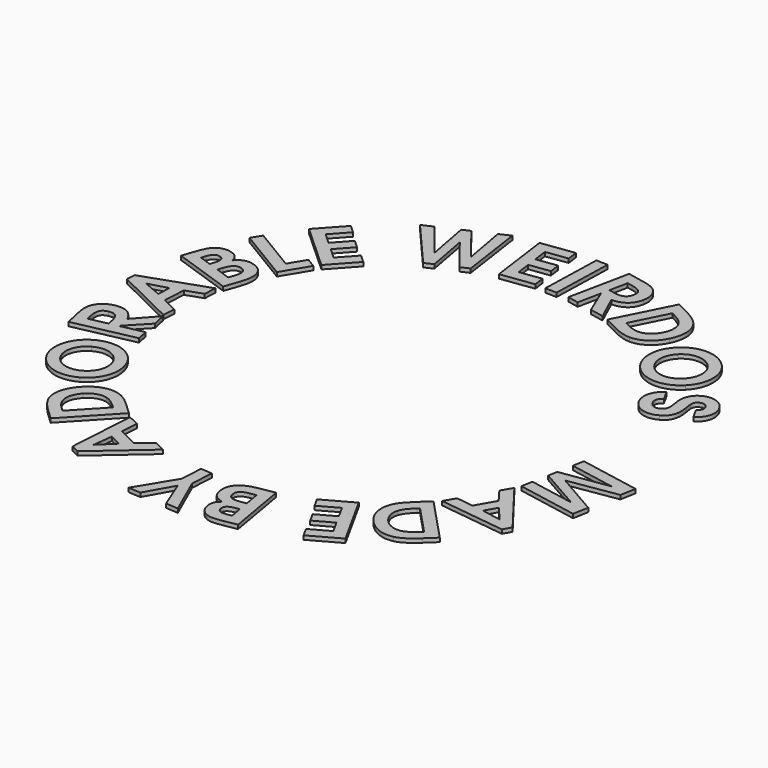
from build123d import *

# Parameters (mm, degrees)
EXTRUDE030_DEPTH = 0.5
EXTRUDE027_DEPTH = 0.5
EXTRUDE025_DEPTH = 0.5
EXTRUDE024_DEPTH = 0.5
EXTRUDE022_DEPTH = 0.5
EXTRUDE015_DEPTH = 0.5
EXTRUDE014_DEPTH = 0.5
EXTRUDE013_DEPTH = 0.5
EXTRUDE012_DEPTH = 0.5
EXTRUDE010_DEPTH = 0.5
EXTRUDE006_DEPTH = 0.5
EXTRUDE001_DEPTH = 0.5
EXTRUDE003_DEPTH = 0.5
EXTRUDE032_DEPTH = 0.5
EXTRUDE018_DEPTH = 0.5
EXTRUDE020_DEPTH = 0.5
EXTRUDE002_DEPTH = 0.5
EXTRUDE009_DEPTH = 0.5
EXTRUDE007_DEPTH = 0.5
EXTRUDE008_DEPTH = 0.5
EXTRUDE005_DEPTH = 0.5
EXTRUDE004_DEPTH = 0.5
EXTRUDE011_DEPTH = 0.5
EXTRUDE016_DEPTH = 0.5
EXTRUDE017_DEPTH = 0.5
EXTRUDE019_DEPTH = 0.5
EXTRUDE021_DEPTH = 0.5
EXTRUDE023_DEPTH = 0.5
EXTRUDE026_DEPTH = 0.5
EXTRUDE029_DEPTH = 0.5
EXTRUDE031_DEPTH = 0.5
EXTRUDE033_DEPTH = 0.5
EXTRUDE034_DEPTH = 0.5
EXTRUDE028_DEPTH = 0.5
EXTRUDE_DEPTH    = 0.5


with BuildPart() as obj1:
    # Face030 → Extrude030 (new body)
    with BuildSketch(Plane(origin=(105.867509, -112.536903, 0), x_dir=(0, -1, 0), z_dir=(0, 0, -1))):
        with BuildLine():
            add(Edge.make_bspline(
                [(0.243497, -1.229201), (1.052007, -1.062601), (1.308327, -0.523531), (1.081917, 0.575209)],
                knots=[0, 0, 0, 0, 1, 1, 1, 1], degree=3))
            add(Edge.make_bspline(
                [(1.081917, 0.575209), (0.938807, 1.269699)],
                knots=[0, 0, 0.709082, 0.709082], degree=1))
            add(Edge.make_bspline(
                [(0.938807, 1.269699), (-1.362333, 0.795529)],
                knots=[0, 0, 2.349486, 2.349486], degree=1))
            add(Edge.make_bspline(
                [(-1.362333, 0.795529), (-1.232043, 0.163239)],
                knots=[0, 0, 0.645574, 0.645574], degree=1))
            add(Edge.make_bspline(
                [(-1.232043, 0.163239), (-0.954373, -1.184281), (-0.440623, -1.370171), (0.243497, -1.229201)],
                knots=[0, 0, 0, 0, 1, 1, 1, 1], degree=3))
        make_face()
    extrude(amount=EXTRUDE030_DEPTH)


with BuildPart() as obj2:
    # Face027 → Extrude027 (new body)
    with BuildSketch(Plane(origin=(72.807212, -133.655014, 0), x_dir=(0, -1, 0), z_dir=(0, 0, -1))):
        with BuildLine():
            add(Edge.make_bspline(
                [(-1.108784, -0.404841), (-0.888104, -1.045212), (-0.381314, -1.183998), (0.579246, -0.852969)],
                knots=[0, 0, 0, 0, 1, 1, 1, 1], degree=3))
            add(Edge.make_bspline(
                [(0.579246, -0.852969), (1.259636, -0.618491)],
                knots=[0, 0, 0.71966, 0.71966], degree=1))
            add(Edge.make_bspline(
                [(1.259636, -0.618491), (0.607926, 1.272606)],
                knots=[0, 0, 2.000243, 2.000243], degree=1))
            add(Edge.make_bspline(
                [(0.607926, 1.272606), (-0.042454, 1.048472)],
                knots=[0, 0, 0.687917, 0.687917], degree=1))
            add(Edge.make_bspline(
                [(-0.042454, 1.048472), (-0.993004, 0.720891), (-1.336374, 0.255542), (-1.108784, -0.404841)],
                knots=[0, 0, 0, 0, 1, 1, 1, 1], degree=3))
        make_face()
    extrude(amount=EXTRUDE027_DEPTH)


with BuildPart() as obj3:
    # Face025 → Extrude025 (new body)
    with BuildSketch(Plane(origin=(69.484369, -141.10482, 0), x_dir=(0, -1, 0), z_dir=(0, 0, -1))):
        with BuildLine():
            add(Edge.make_bspline(
                [(-0.78662, -0.839466), (0.88246, -0.738064)],
                knots=[0, 0, 1.672157, 1.672157], degree=1))
            add(Edge.make_bspline(
                [(0.88246, -0.738064), (-0.09584, 1.577531)],
                knots=[0, 0, 2.513772, 2.513772], degree=1))
            add(Edge.make_bspline(
                [(-0.09584, 1.577531), (-0.78662, -0.839466)],
                knots=[0, 0, 2.513772, 2.513772], degree=1))
        make_face()
    extrude(amount=EXTRUDE025_DEPTH)


with BuildPart() as obj4:
    # Face024 → Extrude024 (new body)
    with BuildSketch(Plane(origin=(104.719414, -173.88275, 0), x_dir=(0, -1, 0), z_dir=(0, 0, -1))):
        with BuildLine():
            add(Edge.make_bspline(
                [(0.16209, 0.919814), (-0.39061, 1.015414), (-0.69361, 0.691954), (-0.84337, -0.173606)],
                knots=[0, 0, 0, 0, 1, 1, 1, 1], degree=3))
            add(Edge.make_bspline(
                [(-0.84337, -0.173606), (-0.92277, -0.632456)],
                knots=[0, 0, 0.465669, 0.465669], degree=1))
            add(Edge.make_bspline(
                [(-0.92277, -0.632456), (0.65192, -0.904896)],
                knots=[0, 0, 1.598084, 1.598084], degree=1))
            add(Edge.make_bspline(
                [(0.65192, -0.904896), (0.75296, -0.320916)],
                knots=[0, 0, 0.592656, 0.592656], degree=1))
            add(Edge.make_bspline(
                [(0.75296, -0.320916), (0.88106, 0.419504), (0.69396, 0.827794), (0.16208, 0.919814)],
                knots=[0, 0, 0, 0, 1, 1, 1, 1], degree=3))
            add(Edge.make_bspline(
                [(0.16208, 0.919814), (0.16209, 0.919814)],
                knots=[0, 0, 1e-05, 1e-05], degree=1))
        make_face()
    extrude(amount=EXTRUDE024_DEPTH)


with BuildPart() as obj5:
    # Face022 → Extrude022 (new body)
    with BuildSketch(Plane(origin=(86.141332, -169.824437, 0), x_dir=(0, -1, 0), z_dir=(0, 0, -1))):
        with BuildLine():
            add(Edge.make_bspline(
                [(-1.079097, 0.398783), (-0.337337, -1.099855)],
                knots=[0, 0, 1.672161, 1.672161], degree=1))
            add(Edge.make_bspline(
                [(-0.337337, -1.099855), (1.416433, 0.701073)],
                knots=[0, 0, 2.513772, 2.513772], degree=1))
            add(Edge.make_bspline(
                [(1.416433, 0.701073), (-1.079097, 0.398783)],
                knots=[0, 0, 2.513772, 2.513772], degree=1))
        make_face()
    extrude(amount=EXTRUDE022_DEPTH)


with BuildPart() as obj6:
    # Face015 → Extrude015 (new body)
    with BuildSketch(Plane(origin=(112.748876, -116.366685, 0), x_dir=(0, -1, 0), z_dir=(0, 0, -1))):
        with BuildLine():
            add(Edge.make_bspline(
                [(0.856605, -1.663164), (1.697605, -1.239004), (2.248725, -0.475074), (2.274355, 0.320166)],
                knots=[0, 0, 0, 0, 1, 1, 1, 1], degree=3))
            add(Edge.make_bspline(
                [(2.274355, 0.320166), (2.296255, 0.817206), (2.119135, 1.403486), (1.728335, 2.178346)],
                knots=[0, 0, 0, 0, 1, 1, 1, 1], degree=3))
            add(Edge.make_bspline(
                [(1.728335, 2.178346), (1.585365, 2.461836)],
                knots=[0, 0, 0.317501, 0.317501], degree=1))
            add(Edge.make_bspline(
                [(1.585365, 2.461836), (-2.922045, 0.188526)],
                knots=[0, 0, 5.048236, 5.048236], degree=1))
            add(Edge.make_bspline(
                [(-2.922045, 0.188526), (-2.793365, -0.066604)],
                knots=[0, 0, 0.285744, 0.285744], degree=1))
            add(Edge.make_bspline(
                [(-2.793365, -0.066604), (-2.378745, -0.888714), (-2.079155, -1.294714), (-1.666335, -1.596194)],
                knots=[0, 0, 0, 0, 1, 1, 1, 1], degree=3))
            add(Edge.make_bspline(
                [(-1.666335, -1.596194), (-0.992535, -2.086084), (-0.041095, -2.115914), (0.856605, -1.663194)],
                knots=[0, 0, 0, 0, 1, 1, 1, 1], degree=3))
            add(Edge.make_bspline(
                [(0.856605, -1.663194), (0.856605, -1.663164)],
                knots=[0, 0, 3e-05, 3e-05], degree=1))
        make_face()
    extrude(amount=EXTRUDE015_DEPTH)


with BuildPart() as obj7:
    # Face014 → Extrude014 (new body)
    with BuildSketch(Plane(origin=(119.803877, -164.540398, 0), x_dir=(0, -1, 0), z_dir=(0, 0, -1))):
        with BuildLine():
            add(Edge.make_bspline(
                [(1.269802, 1.373857), (0.583542, 2.019027), (-0.322818, 2.275567), (-1.078858, 2.027627)],
                knots=[0, 0, 0, 0, 1, 1, 1, 1], degree=3))
            add(Edge.make_bspline(
                [(-1.078858, 2.027627), (-1.553418, 1.878217), (-2.043728, 1.511187), (-2.638158, 0.878907)],
                knots=[0, 0, 0, 0, 1, 1, 1, 1], degree=3))
            add(Edge.make_bspline(
                [(-2.638158, 0.878907), (-2.855628, 0.647587)],
                knots=[0, 0, 0.317494, 0.317494], degree=1))
            add(Edge.make_bspline(
                [(-2.855628, 0.647587), (0.822412, -2.810253)],
                knots=[0, 0, 5.048231, 5.048231], degree=1))
            add(Edge.make_bspline(
                [(0.822412, -2.810253), (1.018142, -2.602063)],
                knots=[0, 0, 0.28575, 0.28575], degree=1))
            add(Edge.make_bspline(
                [(1.018142, -2.602063), (1.648822, -1.931223), (1.927842, -1.510823), (2.069922, -1.019783)],
                knots=[0, 0, 0, 0, 1, 1, 1, 1], degree=3))
            add(Edge.make_bspline(
                [(2.069922, -1.019783), (2.299772, -0.219053), (2.002322, 0.685187), (1.269802, 1.373857)],
                knots=[0, 0, 0, 0, 1, 1, 1, 1], degree=3))
        make_face()
    extrude(amount=EXTRUDE014_DEPTH)


with BuildPart() as obj8:
    # Face013 → Extrude013 (new body)
    with BuildSketch(Plane(origin=(69.690437, -132.801837, 0), x_dir=(0, -1, 0), z_dir=(0, 0, -1))):
        with BuildLine():
            add(Edge.make_bspline(
                [(-0.883967, -0.301562), (-0.701207, -0.831869), (-0.271697, -0.941315), (0.558783, -0.655113)],
                knots=[0, 0, 0, 0, 1, 1, 1, 1], degree=3))
            add(Edge.make_bspline(
                [(0.558783, -0.655113), (0.999043, -0.503392)],
                knots=[0, 0, 0.46567, 0.46567], degree=1))
            add(Edge.make_bspline(
                [(0.999043, -0.503392), (0.478363, 1.007484)],
                knots=[0, 0, 1.598078, 1.598078], degree=1))
            add(Edge.make_bspline(
                [(0.478363, 1.007484), (-0.081967, 0.814384)],
                knots=[0, 0, 0.59267, 0.59267], degree=1))
            add(Edge.make_bspline(
                [(-0.081967, 0.814384), (-0.792377, 0.569561), (-1.059817, 0.208734), (-0.883967, -0.301562)],
                knots=[0, 0, 0, 0, 1, 1, 1, 1], degree=3))
        make_face()
    extrude(amount=EXTRUDE013_DEPTH)


with BuildPart() as obj9:
    # Face012 → Extrude012 (new body)
    with BuildSketch(Plane(origin=(79.11622, -164.606565, 0), x_dir=(0, -1, 0), z_dir=(0, 0, -1))):
        with BuildLine():
            add(Edge.make_bspline(
                [(-1.292765, 1.352275), (-1.979115, 0.707196), (-2.291165, -0.181586), (-2.090415, -0.951494)],
                knots=[0, 0, 0, 0, 1, 1, 1, 1], degree=3))
            add(Edge.make_bspline(
                [(-2.090415, -0.951494), (-1.970615, -1.434383), (-1.634595, -1.946435), (-1.040255, -2.5788)],
                knots=[0, 0, 0, 0, 1, 1, 1, 1], degree=3))
            add(Edge.make_bspline(
                [(-1.040255, -2.5788), (-0.822815, -2.810154)],
                knots=[0, 0, 0.317498, 0.317498], degree=1))
            add(Edge.make_bspline(
                [(-0.822815, -2.810154), (2.855705, 0.647183)],
                knots=[0, 0, 5.048236, 5.048236], degree=1))
            add(Edge.make_bspline(
                [(2.855705, 0.647183), (2.660005, 0.855401)],
                knots=[0, 0, 0.28575, 0.28575], degree=1))
            add(Edge.make_bspline(
                [(2.660005, 0.855401), (2.029425, 1.526325), (1.627075, 1.830794), (1.145745, 2.002942)],
                knots=[0, 0, 0, 0, 1, 1, 1, 1], degree=3))
            add(Edge.make_bspline(
                [(1.145745, 2.002942), (0.360755, 2.281836), (-0.560145, 2.040842), (-1.292765, 1.352275)],
                knots=[0, 0, 0, 0, 1, 1, 1, 1], degree=3))
        make_face()
    extrude(amount=EXTRUDE012_DEPTH)


with BuildPart() as obj10:
    # Face010 → Extrude010 (new body)
    with BuildSketch(Plane(origin=(120.329053, -121.819236, 0), x_dir=(0, -1, 0), z_dir=(0, 0, -1))):
        with BuildLine():
            add(Edge.make_bspline(
                [(1.848304, -1.840127), (2.914384, -0.780897), (2.941934, 0.798043), (1.897604, 1.849113)],
                knots=[0, 0, 0, 0, 1, 1, 1, 1], degree=3))
            add(Edge.make_bspline(
                [(1.897604, 1.849113), (0.853304, 2.900183), (-0.793066, 2.905493), (-1.844136, 1.861213)],
                knots=[0, 0, 0, 0, 1, 1, 1, 1], degree=3))
            add(Edge.make_bspline(
                [(-1.844136, 1.861213), (-2.917726, 0.794523), (-2.922946, -0.821907), (-1.863736, -1.887987)],
                knots=[0, 0, 0, 0, 1, 1, 1, 1], degree=3))
            add(Edge.make_bspline(
                [(-1.863736, -1.887987), (-0.841806, -2.916537), (0.782184, -2.899327), (1.848274, -1.840087)],
                knots=[0, 0, 0, 0, 1, 1, 1, 1], degree=3))
            add(Edge.make_bspline(
                [(1.848274, -1.840087), (1.848304, -1.840127)],
                knots=[0, 0, 5e-05, 5e-05], degree=1))
        make_face()
    extrude(amount=EXTRUDE010_DEPTH)


with BuildPart() as obj11:
    # Face006 → Extrude006 (new body)
    with BuildSketch(Plane(origin=(73.38711, -157.234071, 0), x_dir=(0, -1, 0), z_dir=(0, 0, -1))):
        with BuildLine():
            add(Edge.make_bspline(
                [(-2.293671, 1.241461), (-3.016211, -0.076279), (-2.595551, -1.598404), (-1.296371, -2.310761)],
                knots=[0, 0, 0, 0, 1, 1, 1, 1], degree=3))
            add(Edge.make_bspline(
                [(-1.296371, -2.310761), (0.002809, -3.023118), (1.583309, -2.562043), (2.295669, -1.262863)],
                knots=[0, 0, 0, 0, 1, 1, 1, 1], degree=3))
            add(Edge.make_bspline(
                [(2.295669, -1.262863), (3.023289, 0.064157), (2.570599, 1.615914), (1.252859, 2.338448)],
                knots=[0, 0, 0, 0, 1, 1, 1, 1], degree=3))
            add(Edge.make_bspline(
                [(1.252859, 2.338448), (-0.018481, 3.035541), (-1.571141, 2.559201), (-2.293671, 1.241461)],
                knots=[0, 0, 0, 0, 1, 1, 1, 1], degree=3))
        make_face()
    extrude(amount=EXTRUDE006_DEPTH)


with BuildPart() as obj12:
    # Face001 → Extrude001 (new body)
    with BuildSketch(Plane(origin=(69.00917, -149.23488, 0), x_dir=(0, -1, 0), z_dir=(0, 0, -1))):
        with BuildLine():
            add(Edge.make_bspline(
                [(-1.22385, 0.269105), (-1.39496, -0.538465), (-1.00364, -0.989197), (0.09383, -1.221725)],
                knots=[0, 0, 0, 0, 1, 1, 1, 1], degree=3))
            add(Edge.make_bspline(
                [(0.09383, -1.221725), (0.78751, -1.3687)],
                knots=[0, 0, 0.709079, 0.709079], degree=1))
            add(Edge.make_bspline(
                [(0.78751, -1.3687), (1.2745, 0.929767)],
                knots=[0, 0, 2.349491, 2.349491], degree=1))
            add(Edge.make_bspline(
                [(1.2745, 0.929767), (0.64294, 1.063581)],
                knots=[0, 0, 0.645581, 0.645581], degree=1))
            add(Edge.make_bspline(
                [(0.64294, 1.063581), (-0.70301, 1.348756), (-1.07907, 0.952433), (-1.22385, 0.269105)],
                knots=[0, 0, 0, 0, 1, 1, 1, 1], degree=3))
        make_face()
    extrude(amount=EXTRUDE001_DEPTH)


with BuildPart() as obj13:
    # Face003 → Extrude003 (new body)
    with BuildSketch(Plane(origin=(103.963836, -170.740888, 0), x_dir=(0, -1, 0), z_dir=(0, 0, -1))):
        with BuildLine():
            add(Edge.make_bspline(
                [(0.180032, 1.166576), (-0.487378, 1.282046), (-0.853348, 0.905006), (-1.026568, -0.096114)],
                knots=[0, 0, 0, 0, 1, 1, 1, 1], degree=3))
            add(Edge.make_bspline(
                [(-1.026568, -0.096114), (-1.149258, -0.805244)],
                knots=[0, 0, 0.719665, 0.719665], degree=1))
            add(Edge.make_bspline(
                [(-1.149258, -0.805244), (0.821702, -1.146254)],
                knots=[0, 0, 2.000243, 2.000243], degree=1))
            add(Edge.make_bspline(
                [(0.821702, -1.146254), (0.938982, -0.468414)],
                knots=[0, 0, 0.687911, 0.687911], degree=1))
            add(Edge.make_bspline(
                [(0.938982, -0.468414), (1.110392, 0.522286), (0.868282, 1.047496), (0.180032, 1.166576)],
                knots=[0, 0, 0, 0, 1, 1, 1, 1], degree=3))
        make_face()
    extrude(amount=EXTRUDE003_DEPTH)


with BuildPart() as obj14:
    # Face032 → Extrude032 (new body)
    with BuildSketch(Plane(origin=(125.445887, -157.853437, 0), x_dir=(0, -1, 0), z_dir=(0, 0, -1))):
        with BuildLine():
            add(Edge.make_bspline(
                [(0.330803, 1.101837), (-1.118727, 0.268187)],
                knots=[0, 0, 1.672157, 1.672157], degree=1))
            add(Edge.make_bspline(
                [(-1.118727, 0.268187), (0.787923, -1.370023)],
                knots=[0, 0, 2.513771, 2.513771], degree=1))
            add(Edge.make_bspline(
                [(0.787923, -1.370023), (0.330803, 1.101837)],
                knots=[0, 0, 2.513772, 2.513772], degree=1))
        make_face()
    extrude(amount=EXTRUDE032_DEPTH)

    # Fusion: union obj1, obj2, obj3, obj4, obj5, obj6, obj7, obj8, obj9, obj10, obj11, obj12, obj13
    add(obj1.part)
    add(obj2.part)
    add(obj3.part)
    add(obj4.part)
    add(obj5.part)
    add(obj6.part)
    add(obj7.part)
    add(obj8.part)
    add(obj9.part)
    add(obj10.part)
    add(obj11.part)
    add(obj12.part)
    add(obj13.part)


with BuildPart() as obj15:
    # Part__Mirroring: instance of obj14
    add(obj14.part.mirror(Plane(origin=(0, 0, 0), x_dir=(0, 1, 0), z_dir=(0, 0, 1))))


with BuildPart() as extrude018:
    # Face018 → Extrude018 (new body)
    with BuildSketch(Plane(origin=(104.384623, -172.137742, 0), x_dir=(0, 1, 0), z_dir=(0, 0, 1))):
        with BuildLine():
            add(Edge.make_bspline(
                [(0.999112, 3.031893), (0.081422, 2.873113), (-0.444828, 2.438363), (-0.681938, 1.387733)],
                knots=[0, 0, 0, 0, 1, 1, 1, 1], degree=3))
            add(Edge.make_bspline(
                [(-0.681938, 1.387733), (-1.111668, 1.947073), (-1.559878, 2.116553), (-2.279428, 1.992063)],
                knots=[0, 0, 0, 0, 1, 1, 1, 1], degree=3))
            add(Edge.make_bspline(
                [(-2.279428, 1.992063), (-2.998988, 1.867563), (-3.547898, 1.439633), (-3.806838, 0.825583)],
                knots=[0, 0, 0, 0, 1, 1, 1, 1], degree=3))
            add(Edge.make_bspline(
                [(-3.806838, 0.825583), (-4.019438, 0.316223), (-4.019868, -0.177917), (-3.821438, -1.325037)],
                knots=[0, 0, 0, 0, 1, 1, 1, 1], degree=3))
            add(Edge.make_bspline(
                [(-3.821438, -1.325037), (-3.547188, -2.910147)],
                knots=[0, 0, 1.60866, 1.60866], degree=1))
            add(Edge.make_bspline(
                [(-3.547188, -2.910147), (4.159372, -1.576777)],
                knots=[0, 0, 7.821058, 7.821058], degree=1))
            add(Edge.make_bspline(
                [(4.159372, -1.576777), (3.803932, 0.477603)],
                knots=[0, 0, 2.084902, 2.084902], degree=1))
            add(Edge.make_bspline(
                [(3.803932, 0.477603), (3.461112, 2.458993), (2.406902, 3.275473), (0.999072, 3.031893)],
                knots=[0, 0, 0, 0, 1, 1, 1, 1], degree=3))
            add(Edge.make_bspline(
                [(0.999072, 3.031893), (0.999112, 3.031893)],
                knots=[0, 0, 4e-05, 4e-05], degree=1))
        make_face()
    extrude(amount=EXTRUDE018_DEPTH)


with BuildPart() as extrude020:
    # Face020 → Extrude020 (new body)
    with BuildSketch(Plane(origin=(112.646063, -116.320599, 0), x_dir=(0, 1, 0), z_dir=(0, 0, 1))):
        with BuildLine():
            add(Edge.make_bspline(
                [(-1.560371, -3.070007), (-0.237451, -3.737227), (1.135119, -3.741987), (2.211869, -3.064007)],
                knots=[0, 0, 0, 0, 1, 1, 1, 1], degree=3))
            add(Edge.make_bspline(
                [(2.211869, -3.064007), (2.819019, -2.682737), (3.408499, -1.936967), (3.961339, -0.840827)],
                knots=[0, 0, 0, 0, 1, 1, 1, 1], degree=3))
            add(Edge.make_bspline(
                [(3.961339, -0.840827), (4.766769, 0.756143)],
                knots=[0, 0, 1.788583, 1.788583], degree=1))
            add(Edge.make_bspline(
                [(4.766769, 0.756143), (-2.216411, 4.278093)],
                knots=[0, 0, 7.821057, 7.821057], degree=1))
            add(Edge.make_bspline(
                [(-2.216411, 4.278093), (-3.036141, 2.652783)],
                knots=[0, 0, 1.820327, 1.820327], degree=1))
            add(Edge.make_bspline(
                [(-3.036141, 2.652783), (-3.569911, 1.594443), (-3.785281, 0.908903), (-3.787741, 0.198953)],
                knots=[0, 0, 0, 0, 1, 1, 1, 1], degree=3))
            add(Edge.make_bspline(
                [(-3.787741, 0.198953), (-3.801841, -1.145177), (-2.968351, -2.359727), (-1.560371, -3.069837)],
                knots=[0, 0, 0, 0, 1, 1, 1, 1], degree=3))
            add(Edge.make_bspline(
                [(-1.560371, -3.069837), (-1.560371, -3.070007)],
                knots=[0, 0, 0.00017, 0.00017], degree=1))
        make_face()
    extrude(amount=EXTRUDE020_DEPTH)


with BuildPart() as extrude002:
    # Face002 → Extrude002 (new body)
    with BuildSketch(Plane(origin=(119.882306, -164.459677, 0), x_dir=(0, 1, 0), z_dir=(0, 0, 1))):
        with BuildLine():
            add(Edge.make_bspline(
                [(-2.350903, 2.516376), (-3.430413, 1.501496), (-3.904423, 0.213366), (-3.635823, -1.030284)],
                knots=[0, 0, 0, 0, 1, 1, 1, 1], degree=3))
            add(Edge.make_bspline(
                [(-3.635823, -1.030284), (-3.485253, -1.731234), (-2.986123, -2.540264), (-2.145223, -3.434724)],
                knots=[0, 0, 0, 0, 1, 1, 1, 1], degree=3))
            add(Edge.make_bspline(
                [(-2.145223, -3.434724), (-0.920123, -4.737844)],
                knots=[0, 0, 1.788573, 1.788573], degree=1))
            add(Edge.make_bspline(
                [(-0.920123, -4.737844), (4.778157, 0.619266)],
                knots=[0, 0, 7.821063, 7.821063], degree=1))
            add(Edge.make_bspline(
                [(4.778157, 0.619266), (3.531297, 1.945526)],
                knots=[0, 0, 1.820337, 1.820337], degree=1))
            add(Edge.make_bspline(
                [(3.531297, 1.945526), (2.719397, 2.809136), (2.148887, 3.246016), (1.482617, 3.491186)],
                knots=[0, 0, 0, 0, 1, 1, 1, 1], degree=3))
            add(Edge.make_bspline(
                [(1.482617, 3.491186), (0.224407, 3.964266), (-1.202003, 3.596496), (-2.350903, 2.516376)],
                knots=[0, 0, 0, 0, 1, 1, 1, 1], degree=3))
        make_face()
    extrude(amount=EXTRUDE002_DEPTH)


with BuildPart() as extrude009:
    # Face009 → Extrude009 (new body)
    with BuildSketch(Plane(origin=(73.387077, -157.234524, 0), x_dir=(0, 1, 0), z_dir=(0, 0, 1))):
        with BuildLine():
            add(Edge.make_bspline(
                [(3.564574, 1.962168), (2.490944, 3.920218), (0.052554, 4.647157), (-1.905496, 3.573533)],
                knots=[0, 0, 0, 0, 1, 1, 1, 1], degree=3))
            add(Edge.make_bspline(
                [(-1.905496, 3.573533), (-3.947066, 2.454114), (-4.674896, 0.039373), (-3.575836, -1.965077)],
                knots=[0, 0, 0, 0, 1, 1, 1, 1], degree=3))
            add(Edge.make_bspline(
                [(-3.575836, -1.965077), (-2.492036, -3.941687), (-0.035976, -4.634801), (1.977754, -3.530647)],
                knots=[0, 0, 0, 0, 1, 1, 1, 1], degree=3))
            add(Edge.make_bspline(
                [(1.977754, -3.530647), (3.972924, -2.43667), (4.663634, -0.042281), (3.564574, 1.962168)],
                knots=[0, 0, 0, 0, 1, 1, 1, 1], degree=3))
        make_face()
    extrude(amount=EXTRUDE009_DEPTH)


with BuildPart() as extrude007:
    # Face007 → Extrude007 (new body)
    with BuildSketch(Plane(origin=(77.264595, -123.140091, 0), x_dir=(0, 1, 0), z_dir=(0, 0, 1))):
        with BuildLine():
            add(Edge.make_bspline(
                [(-0.826139, -4.532261), (0.106681, -3.506591)],
                knots=[0, 0, 1.386417, 1.386417], degree=1))
            add(Edge.make_bspline(
                [(0.106681, -3.506591), (-1.929009, -1.655206)],
                knots=[0, 0, 2.751665, 2.751665], degree=1))
            add(Edge.make_bspline(
                [(-1.929009, -1.655206), (-0.704239, -0.308525)],
                knots=[0, 0, 1.820333, 1.820333], degree=1))
            add(Edge.make_bspline(
                [(-0.704239, -0.308525), (1.245311, -2.081582)],
                knots=[0, 0, 2.635237, 2.635237], degree=1))
            add(Edge.make_bspline(
                [(1.245311, -2.081582), (2.178131, -1.055912)],
                knots=[0, 0, 1.386417, 1.386417], degree=1))
            add(Edge.make_bspline(
                [(2.178131, -1.055912), (0.228571, 0.717145)],
                knots=[0, 0, 2.635245, 2.635245], degree=1))
            add(Edge.make_bspline(
                [(0.228571, 0.717145), (1.467571, 2.079485)],
                knots=[0, 0, 1.841492, 1.841492], degree=1))
            add(Edge.make_bspline(
                [(1.467571, 2.079485), (3.503251, 0.2281)],
                knots=[0, 0, 2.751658, 2.751658], degree=1))
            add(Edge.make_bspline(
                [(3.503251, 0.2281), (4.436071, 1.25377)],
                knots=[0, 0, 1.386417, 1.386417], degree=1))
            add(Edge.make_bspline(
                [(4.436071, 1.25377), (1.327741, 4.080692)],
                knots=[0, 0, 4.201572, 4.201572], degree=1))
            add(Edge.make_bspline(
                [(1.327741, 4.080692), (-3.934469, -1.705339)],
                knots=[0, 0, 7.821062, 7.821062], degree=1))
            add(Edge.make_bspline(
                [(-3.934469, -1.705339), (-0.826139, -4.532261)],
                knots=[0, 0, 4.201572, 4.201572], degree=1))
        make_face()
    extrude(amount=EXTRUDE007_DEPTH)


with BuildPart() as extrude008:
    # Face008 → Extrude008 (new body)
    with BuildSketch(Plane(origin=(87.054466, -115.687966, 0), x_dir=(0, 1, 0), z_dir=(0, 0, 1))):
        with BuildLine():
            add(Edge.make_bspline(
                [(5.329276, -2.747734), (4.714796, -1.3995)],
                knots=[0, 0, 1.481661, 1.481661], degree=1))
            add(Edge.make_bspline(
                [(4.714796, -1.3995), (-0.829384, -2.402746)],
                knots=[0, 0, 5.63422, 5.63422], degree=1))
            add(Edge.make_bspline(
                [(-0.829384, -2.402746), (3.595556, 1.056211)],
                knots=[0, 0, 5.616447, 5.616447], degree=1))
            add(Edge.make_bspline(
                [(3.595556, 1.056211), (3.156646, 2.019235)],
                knots=[0, 0, 1.058328, 1.058328], degree=1))
            add(Edge.make_bspline(
                [(3.156646, 2.019235), (-2.365594, 0.967838)],
                knots=[0, 0, 5.621438, 5.621438], degree=1))
            add(Edge.make_bspline(
                [(-2.365594, 0.967838), (2.033016, 4.484576)],
                knots=[0, 0, 5.631626, 5.631626], degree=1))
            add(Edge.make_bspline(
                [(2.033016, 4.484576), (1.418536, 5.832809)],
                knots=[0, 0, 1.481661, 1.481661], degree=1))
            add(Edge.make_bspline(
                [(1.418536, 5.832809), (-4.745764, 0.499458)],
                knots=[0, 0, 8.151272, 8.151272], degree=1))
            add(Edge.make_bspline(
                [(-4.745764, 0.499458), (-4.271734, -0.540608)],
                knots=[0, 0, 1.142997, 1.142997], degree=1))
            add(Edge.make_bspline(
                [(-4.271734, -0.540608), (0.972936, 0.430802)],
                knots=[0, 0, 5.333873, 5.333873], degree=1))
            add(Edge.make_bspline(
                [(0.972936, 0.430802), (-3.213944, -2.861496)],
                knots=[0, 0, 5.326274, 5.326274], degree=1))
            add(Edge.make_bspline(
                [(-3.213944, -2.861496), (-2.735524, -3.911192)],
                knots=[0, 0, 1.15358, 1.15358], degree=1))
            add(Edge.make_bspline(
                [(-2.735524, -3.911192), (5.329276, -2.747734)],
                knots=[0, 0, 8.14829, 8.14829], degree=1))
        make_face()
    extrude(amount=EXTRUDE008_DEPTH)


with BuildPart() as extrude005:
    # Face005 → Extrude005 (new body)
    with BuildSketch(Plane(origin=(79.201633, -164.679855, 0), x_dir=(0, 1, 0), z_dir=(0, 0, 1))):
        with BuildLine():
            add(Edge.make_bspline(
                [(2.366285, 2.501914), (1.286635, 3.516646), (-0.028315, 3.91014), (-1.252995, 3.565209)],
                knots=[0, 0, 0, 0, 1, 1, 1, 1], degree=3))
            add(Edge.make_bspline(
                [(-1.252995, 3.565209), (-1.943295, 3.371608), (-2.719945, 2.823438), (-3.560725, 1.928871)],
                knots=[0, 0, 0, 0, 1, 1, 1, 1], degree=3))
            add(Edge.make_bspline(
                [(-3.560725, 1.928871), (-4.785645, 0.625581)],
                knots=[0, 0, 1.788573, 1.788573], degree=1))
            add(Edge.make_bspline(
                [(-4.785645, 0.625581), (0.913355, -4.730753)],
                knots=[0, 0, 7.821056, 7.821056], degree=1))
            add(Edge.make_bspline(
                [(0.913355, -4.730753), (2.160025, -3.404328)],
                knots=[0, 0, 1.820327, 1.820327], degree=1))
            add(Edge.make_bspline(
                [(2.160025, -3.404328), (2.971815, -2.540609), (3.372605, -1.944191), (3.576135, -1.264042)],
                knots=[0, 0, 0, 0, 1, 1, 1, 1], degree=3))
            add(Edge.make_bspline(
                [(3.576135, -1.264042), (3.970555, 0.020994), (3.515335, 1.421949), (2.366285, 2.501914)],
                knots=[0, 0, 0, 0, 1, 1, 1, 1], degree=3))
        make_face()
    extrude(amount=EXTRUDE005_DEPTH)


with BuildPart() as extrude004:
    # Face004 → Extrude004 (new body)
    with BuildSketch(Plane(origin=(86.45265, -169.187474, 0), x_dir=(0, 1, 0), z_dir=(0, 0, 1))):
        with BuildLine():
            add(Edge.make_bspline(
                [(4.834304, 1.901652), (-3.630496, 2.430658)],
                knots=[0, 0, 8.481314, 8.481314], degree=1))
            add(Edge.make_bspline(
                [(-3.630496, 2.430658), (-4.137526, 1.406272)],
                knots=[0, 0, 1.142999, 1.142999], degree=1))
            add(Edge.make_bspline(
                [(-4.137526, 1.406272), (1.425964, -4.984495)],
                knots=[0, 0, 8.473153, 8.473153], degree=1))
            add(Edge.make_bspline(
                [(1.425964, -4.984495), (2.134864, -3.552252)],
                knots=[0, 0, 1.59808, 1.59808], degree=1))
            add(Edge.make_bspline(
                [(2.134864, -3.552252), (0.708184, -1.877793)],
                knots=[0, 0, 2.199825, 2.199825], degree=1))
            add(Edge.make_bspline(
                [(0.708184, -1.877793), (1.942884, 0.616775)],
                knots=[0, 0, 2.783407, 2.783407], degree=1))
            add(Edge.make_bspline(
                [(1.942884, 0.616775), (4.125404, 0.469409)],
                knots=[0, 0, 2.187489, 2.187489], degree=1))
            add(Edge.make_bspline(
                [(4.125404, 0.469409), (4.834304, 1.901652)],
                knots=[0, 0, 1.59808, 1.59808], degree=1))
        make_face()
    extrude(amount=EXTRUDE004_DEPTH)


with BuildPart() as extrude011:
    # Face011 → Extrude011 (new body)
    with BuildSketch(Plane(origin=(100.216962, -113.227833, 0), x_dir=(0, 1, 0), z_dir=(0, 0, 1))):
        with BuildLine():
            add(Edge.make_bspline(
                [(-3.928907, -0.617488), (3.889213, -0.831878)],
                knots=[0, 0, 7.821059, 7.821059], degree=1))
            add(Edge.make_bspline(
                [(3.889213, -0.831878), (3.928913, 0.617484)],
                knots=[0, 0, 1.449906, 1.449906], degree=1))
            add(Edge.make_bspline(
                [(3.928913, 0.617484), (-3.889207, 0.831881)],
                knots=[0, 0, 7.821059, 7.821059], degree=1))
            add(Edge.make_bspline(
                [(-3.889207, 0.831881), (-3.928907, -0.617488)],
                knots=[0, 0, 1.449913, 1.449913], degree=1))
        make_face()
    extrude(amount=EXTRUDE011_DEPTH)


with BuildPart() as extrude016:
    # Face016 → Extrude016 (new body)
    with BuildSketch(Plane(origin=(74.352522, -128.377323, 0), x_dir=(0, 1, 0), z_dir=(0, 0, 1))):
        with BuildLine():
            add(Edge.make_bspline(
                [(0.656283, -4.109998), (1.371393, -2.922242)],
                knots=[0, 0, 1.386415, 1.386415], degree=1))
            add(Edge.make_bspline(
                [(1.371393, -2.922242), (-0.677717, -1.68855)],
                knots=[0, 0, 2.391829, 2.391829], degree=1))
            add(Edge.make_bspline(
                [(-0.677717, -1.68855), (2.641243, 3.824088)],
                knots=[0, 0, 6.434646, 6.434646], degree=1))
            add(Edge.make_bspline(
                [(2.641243, 3.824088), (1.399083, 4.571946)],
                knots=[0, 0, 1.449915, 1.449915], degree=1))
            add(Edge.make_bspline(
                [(1.399083, 4.571946), (-2.634977, -2.128449)],
                knots=[0, 0, 7.821057, 7.821057], degree=1))
            add(Edge.make_bspline(
                [(-2.634977, -2.128449), (0.656283, -4.109998)],
                knots=[0, 0, 3.841735, 3.841735], degree=1))
        make_face()
    extrude(amount=EXTRUDE016_DEPTH)


with BuildPart() as extrude017:
    # Face017 → Extrude017 (new body)
    with BuildSketch(Plane(origin=(70.192246, -141.144276, 0), x_dir=(0, 1, 0), z_dir=(0, 0, 1))):
        with BuildLine():
            add(Edge.make_bspline(
                [(3.630116, -3.716049), (0.829606, 4.289569)],
                knots=[0, 0, 8.481319, 8.481319], degree=1))
            add(Edge.make_bspline(
                [(0.829606, 4.289569), (-0.311284, 4.358879)],
                knots=[0, 0, 1.142993, 1.142993], degree=1))
            add(Edge.make_bspline(
                [(-0.311284, 4.358879), (-4.039224, -3.250116)],
                knots=[0, 0, 8.473154, 8.473154], degree=1))
            add(Edge.make_bspline(
                [(-4.039224, -3.250116), (-2.444084, -3.347026)],
                knots=[0, 0, 1.598081, 1.598081], degree=1))
            add(Edge.make_bspline(
                [(-2.444084, -3.347026), (-1.455274, -1.381963)],
                knots=[0, 0, 2.199822, 2.199822], degree=1))
            add(Edge.make_bspline(
                [(-1.455274, -1.381963), (1.323016, -1.550752)],
                knots=[0, 0, 2.783412, 2.783412], degree=1))
            add(Edge.make_bspline(
                [(1.323016, -1.550752), (2.034976, -3.619143)],
                knots=[0, 0, 2.187494, 2.187494], degree=1))
            add(Edge.make_bspline(
                [(2.034976, -3.619143), (3.630116, -3.716049)],
                knots=[0, 0, 1.598081, 1.598081], degree=1))
        make_face()
    extrude(amount=EXTRUDE017_DEPTH)


with BuildPart() as extrude019:
    # Face019 → Extrude019 (new body)
    with BuildSketch(Plane(origin=(97.38348, -173.231438, 0), x_dir=(0, 1, 0), z_dir=(0, 0, 1))):
        with BuildLine():
            add(Edge.make_bspline(
                [(-3.022582, 3.501118), (-3.124352, 1.9381)],
                knots=[0, 0, 1.566328, 1.566328], degree=1))
            add(Edge.make_bspline(
                [(-3.124352, 1.9381), (0.354268, -0.017143)],
                knots=[0, 0, 3.99046, 3.99046], degree=1))
            add(Edge.make_bspline(
                [(0.354268, -0.017143), (-3.349232, -1.515325)],
                knots=[0, 0, 3.995055, 3.995055], degree=1))
            add(Edge.make_bspline(
                [(-3.349232, -1.515325), (-3.451002, -3.07834)],
                knots=[0, 0, 1.566325, 1.566325], degree=1))
            add(Edge.make_bspline(
                [(-3.451002, -3.07834), (1.637498, -0.832495)],
                knots=[0, 0, 5.562073, 5.562073], degree=1))
            add(Edge.make_bspline(
                [(1.637498, -0.832495), (4.520628, -1.020232)],
                knots=[0, 0, 2.889236, 2.889236], degree=1))
            add(Edge.make_bspline(
                [(4.520628, -1.020232), (4.614828, 0.426616)],
                knots=[0, 0, 1.449911, 1.449911], degree=1))
            add(Edge.make_bspline(
                [(4.614828, 0.426616), (1.731688, 0.614353)],
                knots=[0, 0, 2.889246, 2.889246], degree=1))
            add(Edge.make_bspline(
                [(1.731688, 0.614353), (-3.022582, 3.501118)],
                knots=[0, 0, 5.562059, 5.562059], degree=1))
        make_face()
    extrude(amount=EXTRUDE019_DEPTH)


with BuildPart() as extrude021:
    # Face021 → Extrude021 (new body)
    with BuildSketch(Plane(origin=(120.329272, -121.818796, 0), x_dir=(0, 1, 0), z_dir=(0, 0, 1))):
        with BuildLine():
            add(Edge.make_bspline(
                [(-2.863114, -2.890878), (-1.279004, -4.464798), (1.265436, -4.471548), (2.839356, -2.887878)],
                knots=[0, 0, 0, 0, 1, 1, 1, 1], degree=3))
            add(Edge.make_bspline(
                [(2.839356, -2.887878), (4.480406, -1.236198), (4.494716, 1.285812), (2.873056, 2.897022)],
                knots=[0, 0, 0, 0, 1, 1, 1, 1], degree=3))
            add(Edge.make_bspline(
                [(2.873056, 2.897022), (1.273926, 4.485862), (-1.277874, 4.455172), (-2.896544, 2.826022)],
                knots=[0, 0, 0, 0, 1, 1, 1, 1], degree=3))
            add(Edge.make_bspline(
                [(-2.896544, 2.826022), (-4.500294, 1.211882), (-4.484774, -1.280088), (-2.863144, -2.891308)],
                knots=[0, 0, 0, 0, 1, 1, 1, 1], degree=3))
            add(Edge.make_bspline(
                [(-2.863144, -2.891308), (-2.863114, -2.890878)],
                knots=[0, 0, 0.000431, 0.000431], degree=1))
        make_face()
    extrude(amount=EXTRUDE021_DEPTH)


with BuildPart() as extrude023:
    # Face023 → Extrude023 (new body)
    with BuildSketch(Plane(origin=(95.136317, -113.525791, 0), x_dir=(0, 1, 0), z_dir=(0, 0, 1))):
        with BuildLine():
            add(Edge.make_bspline(
                [(-3.545189, -2.942029), (-2.171389, -2.755478)],
                knots=[0, 0, 1.386408, 1.386408], degree=1))
            add(Edge.make_bspline(
                [(-2.171389, -2.755478), (-2.541639, -0.028844)],
                knots=[0, 0, 2.751657, 2.751657], degree=1))
            add(Edge.make_bspline(
                [(-2.541639, -0.028844), (-0.737869, 0.216094)],
                knots=[0, 0, 1.820324, 1.820324], degree=1))
            add(Edge.make_bspline(
                [(-0.737869, 0.216094), (-0.383279, -2.395182)],
                knots=[0, 0, 2.635241, 2.635241], degree=1))
            add(Edge.make_bspline(
                [(-0.383279, -2.395182), (0.990521, -2.208631)],
                knots=[0, 0, 1.386408, 1.386408], degree=1))
            add(Edge.make_bspline(
                [(0.990521, -2.208631), (0.635931, 0.402645)],
                knots=[0, 0, 2.635241, 2.635241], degree=1))
            add(Edge.make_bspline(
                [(0.635931, 0.402645), (2.460681, 0.650431)],
                knots=[0, 0, 1.841497, 1.841497], degree=1))
            add(Edge.make_bspline(
                [(2.460681, 0.650431), (2.830941, -2.076203)],
                knots=[0, 0, 2.751659, 2.751659], degree=1))
            add(Edge.make_bspline(
                [(2.830941, -2.076203), (4.204741, -1.889651)],
                knots=[0, 0, 1.386408, 1.386408], degree=1))
            add(Edge.make_bspline(
                [(4.204741, -1.889651), (3.639391, 2.273709)],
                knots=[0, 0, 4.20157, 4.20157], degree=1))
            add(Edge.make_bspline(
                [(3.639391, 2.273709), (-4.110539, 1.221331)],
                knots=[0, 0, 7.821056, 7.821056], degree=1))
            add(Edge.make_bspline(
                [(-4.110539, 1.221331), (-3.545189, -2.942029)],
                knots=[0, 0, 4.20157, 4.20157], degree=1))
        make_face()
    extrude(amount=EXTRUDE023_DEPTH)


with BuildPart() as extrude026:
    # Face026 → Extrude026 (new body)
    with BuildSketch(Plane(origin=(70.039758, -149.194342, 0), x_dir=(0, 1, 0), z_dir=(0, 0, 1))):
        with BuildLine():
            add(Edge.make_bspline(
                [(3.777012, -3.538249), (1.107452, -1.150487)],
                knots=[0, 0, 3.581614, 3.581614], degree=1))
            add(Edge.make_bspline(
                [(1.107452, -1.150487), (2.412072, -0.517066), (2.855592, 0.453184), (2.603322, 1.643831)],
                knots=[0, 0, 0, 0, 1, 1, 1, 1], degree=3))
            add(Edge.make_bspline(
                [(2.603322, 1.643831), (2.438792, 2.420341), (2.018862, 3.023733), (1.396502, 3.357055)],
                knots=[0, 0, 0, 0, 1, 1, 1, 1], degree=3))
            add(Edge.make_bspline(
                [(1.396502, 3.357055), (0.809602, 3.676251), (0.230152, 3.704936), (-0.815548, 3.483376)],
                knots=[0, 0, 0, 0, 1, 1, 1, 1], degree=3))
            add(Edge.make_bspline(
                [(-0.815548, 3.483376), (-3.020828, 3.016127)],
                knots=[0, 0, 2.254236, 2.254236], degree=1))
            add(Edge.make_bspline(
                [(-3.020828, 3.016127), (-1.399718, -4.635078)],
                knots=[0, 0, 7.821057, 7.821057], degree=1))
            add(Edge.make_bspline(
                [(-1.399718, -4.635078), (0.018702, -4.334547)],
                knots=[0, 0, 1.449908, 1.449908], degree=1))
            add(Edge.make_bspline(
                [(0.018702, -4.334547), (-0.602098, -1.404518)],
                knots=[0, 0, 2.995073, 2.995073], degree=1))
            add(Edge.make_bspline(
                [(-0.602098, -1.404518), (2.027272, -3.908977)],
                knots=[0, 0, 3.63124, 3.63124], degree=1))
            add(Edge.make_bspline(
                [(2.027272, -3.908977), (3.777012, -3.538249)],
                knots=[0, 0, 1.788583, 1.788583], degree=1))
        make_face()
    extrude(amount=EXTRUDE026_DEPTH)


with BuildPart() as extrude029:
    # Face029 → Extrude029 (new body)
    with BuildSketch(Plane(origin=(105.491954, -113.497481, 0), x_dir=(0, 1, 0), z_dir=(0, 0, 1))):
        with BuildLine():
            add(Edge.make_bspline(
                [(-4.754659, -2.044076), (-1.497689, -0.554076)],
                knots=[0, 0, 3.581613, 3.581613], degree=1))
            add(Edge.make_bspline(
                [(-1.497689, -0.554076), (-1.439689, -2.003176), (-0.728249, -2.798116), (0.463781, -3.043746)],
                knots=[0, 0, 0, 0, 1, 1, 1, 1], degree=3))
            add(Edge.make_bspline(
                [(0.463781, -3.043746), (1.241201, -3.203936), (1.962261, -3.060746), (2.516911, -2.623966)],
                knots=[0, 0, 0, 0, 1, 1, 1, 1], degree=3))
            add(Edge.make_bspline(
                [(2.516911, -2.623966), (3.044421, -2.213996), (3.302741, -1.694526), (3.518471, -0.647606)],
                knots=[0, 0, 0, 0, 1, 1, 1, 1], degree=3))
            add(Edge.make_bspline(
                [(3.518471, -0.647606), (3.973411, 1.560254)],
                knots=[0, 0, 2.254244, 2.254244], degree=1))
            add(Edge.make_bspline(
                [(3.973411, 1.560254), (-3.686709, 3.138684)],
                knots=[0, 0, 7.821054, 7.821054], degree=1))
            add(Edge.make_bspline(
                [(-3.686709, 3.138684), (-3.979329, 1.718604)],
                knots=[0, 0, 1.449915, 1.449915], degree=1))
            add(Edge.make_bspline(
                [(-3.979329, 1.718604), (-1.045879, 1.114144)],
                knots=[0, 0, 2.995079, 2.995079], degree=1))
            add(Edge.make_bspline(
                [(-1.045879, 1.114144), (-4.393689, -0.292306)],
                knots=[0, 0, 3.631244, 3.631244], degree=1))
            add(Edge.make_bspline(
                [(-4.393689, -0.292306), (-4.754659, -2.044076)],
                knots=[0, 0, 1.788574, 1.788574], degree=1))
        make_face()
    extrude(amount=EXTRUDE029_DEPTH)


with BuildPart() as extrude031:
    # Face031 → Extrude031 (new body)
    with BuildSketch(Plane(origin=(125.326405, -128.459063, 0), x_dir=(0, 1, 0), z_dir=(0, 0, 1))):
        with BuildLine():
            add(Edge.make_bspline(
                [(-2.869147, 0.106465), (-2.351897, -0.816855), (-1.637127, -1.204945), (0.037503, -0.946135)],
                knots=[0, 0, 0, 0, 1, 1, 1, 1], degree=3))
            add(Edge.make_bspline(
                [(0.037503, -0.946135), (0.818313, -0.824125), (0.841953, -0.823015), (0.965323, -0.826685)],
                knots=[0, 0, 0, 0, 1, 1, 1, 1], degree=3))
            add(Edge.make_bspline(
                [(0.965323, -0.826685), (1.302553, -0.843985), (1.550783, -0.983945), (1.690433, -1.233245)],
                knots=[0, 0, 0, 0, 1, 1, 1, 1], degree=3))
            add(Edge.make_bspline(
                [(1.690433, -1.233245), (1.918023, -1.639505), (1.792143, -2.086075), (1.376643, -2.318835)],
                knots=[0, 0, 0, 0, 1, 1, 1, 1], degree=3))
            add(Edge.make_bspline(
                [(1.376643, -2.318835), (0.951923, -2.556775), (0.548563, -2.443075), (0.253003, -2.002105)],
                knots=[0, 0, 0, 0, 1, 1, 1, 1], degree=3))
            add(Edge.make_bspline(
                [(0.253003, -2.002105), (-1.058107, -2.736585)],
                knots=[0, 0, 1.502821, 1.502821], degree=1))
            add(Edge.make_bspline(
                [(-1.058107, -2.736585), (-0.321057, -3.900695), (0.951423, -4.158315), (2.050173, -3.542795)],
                knots=[0, 0, 0, 0, 1, 1, 1, 1], degree=3))
            add(Edge.make_bspline(
                [(2.050173, -3.542795), (3.148923, -2.927275), (3.554273, -1.572035), (2.949103, -0.491745)],
                knots=[0, 0, 0, 0, 1, 1, 1, 1], degree=3))
            add(Edge.make_bspline(
                [(2.949103, -0.491745), (2.468063, 0.366945), (1.592993, 0.738015), (0.487523, 0.567575)],
                knots=[0, 0, 0, 0, 1, 1, 1, 1], degree=3))
            add(Edge.make_bspline(
                [(0.487523, 0.567575), (-0.608707, 0.402295), (-0.698097, 0.388615), (-0.989157, 0.431795)],
                knots=[0, 0, 0, 0, 1, 1, 1, 1], degree=3))
            add(Edge.make_bspline(
                [(-0.989157, 0.431795), (-1.280217, 0.474995), (-1.535847, 0.671425), (-1.691017, 0.948415)],
                knots=[0, 0, 0, 0, 1, 1, 1, 1], degree=3))
            add(Edge.make_bspline(
                [(-1.691017, 0.948415), (-1.965157, 1.437775), (-1.778017, 1.991475), (-1.233217, 2.296655)],
                knots=[0, 0, 0, 0, 1, 1, 1, 1], degree=3))
            add(Edge.make_bspline(
                [(-1.233217, 2.296655), (-0.669987, 2.612165), (-0.210127, 2.505865), (0.165973, 1.964445)],
                knots=[0, 0, 0, 0, 1, 1, 1, 1], degree=3))
            add(Edge.make_bspline(
                [(0.165973, 1.964445), (1.486313, 2.704105)],
                knots=[0, 0, 1.513405, 1.513405], degree=1))
            add(Edge.make_bspline(
                [(1.486313, 2.704105), (0.651373, 3.934675), (-0.715667, 4.187855), (-1.915977, 3.515435)],
                knots=[0, 0, 0, 0, 1, 1, 1, 1], degree=3))
            add(Edge.make_bspline(
                [(-1.915977, 3.515435), (-3.143997, 2.827495), (-3.562257, 1.343715), (-2.869147, 0.106465)],
                knots=[0, 0, 0, 0, 1, 1, 1, 1], degree=3))
        make_face()
    extrude(amount=EXTRUDE031_DEPTH)


with BuildPart() as extrude033:
    # Face033 → Extrude033 (new body)
    with BuildSketch(Plane(origin=(114.019113, -168.804916, 0), x_dir=(0, 1, 0), z_dir=(0, 0, 1))):
        with BuildLine():
            add(Edge.make_bspline(
                [(2.240386, 4.025493), (1.027176, 3.354473)],
                knots=[0, 0, 1.386415, 1.386415], degree=1))
            add(Edge.make_bspline(
                [(1.027176, 3.354473), (2.358976, 0.946583)],
                knots=[0, 0, 2.751659, 2.751659], degree=1))
            add(Edge.make_bspline(
                [(2.358976, 0.946583), (0.766066, 0.065543)],
                knots=[0, 0, 1.820328, 1.820328], degree=1))
            add(Edge.make_bspline(
                [(0.766066, 0.065543), (-0.509384, 2.371563)],
                knots=[0, 0, 2.635242, 2.635242], degree=1))
            add(Edge.make_bspline(
                [(-0.509384, 2.371563), (-1.722594, 1.700543)],
                knots=[0, 0, 1.386415, 1.386415], degree=1))
            add(Edge.make_bspline(
                [(-1.722594, 1.700543), (-0.447144, -0.605477)],
                knots=[0, 0, 2.635242, 2.635242], degree=1))
            add(Edge.make_bspline(
                [(-0.447144, -0.605477), (-2.058574, -1.496757)],
                knots=[0, 0, 1.84149, 1.84149], degree=1))
            add(Edge.make_bspline(
                [(-2.058574, -1.496757), (-3.390374, 0.911143)],
                knots=[0, 0, 2.751667, 2.751667], degree=1))
            add(Edge.make_bspline(
                [(-3.390374, 0.911143), (-4.603584, 0.240113)],
                knots=[0, 0, 1.38642, 1.38642], degree=1))
            add(Edge.make_bspline(
                [(-4.603584, 0.240113), (-2.570034, -3.436547)],
                knots=[0, 0, 4.201566, 4.201566], degree=1))
            add(Edge.make_bspline(
                [(-2.570034, -3.436547), (4.273936, 0.348823)],
                knots=[0, 0, 7.821058, 7.821058], degree=1))
            add(Edge.make_bspline(
                [(4.273936, 0.348823), (2.240386, 4.025493)],
                knots=[0, 0, 4.201574, 4.201574], degree=1))
        make_face()
    extrude(amount=EXTRUDE033_DEPTH)


with BuildPart() as extrude034:
    # Face034 → Extrude034 (new body)
    with BuildSketch(Plane(origin=(124.829545, -157.503056, 0), x_dir=(0, 1, 0), z_dir=(0, 0, 1))):
        with BuildLine():
            add(Edge.make_bspline(
                [(-1.596904, 4.943345), (-2.652034, -3.472085)],
                knots=[0, 0, 8.481318, 8.481318], degree=1))
            add(Edge.make_bspline(
                [(-2.652034, -3.472085), (-1.661214, -4.041915)],
                knots=[0, 0, 1.142992, 1.142992], degree=1))
            add(Edge.make_bspline(
                [(-1.661214, -4.041915), (5.063626, 1.112775)],
                knots=[0, 0, 8.473152, 8.473152], degree=1))
            add(Edge.make_bspline(
                [(5.063626, 1.112775), (3.678306, 1.909495)],
                knots=[0, 0, 1.598085, 1.598085], degree=1))
            add(Edge.make_bspline(
                [(3.678306, 1.909495), (1.918246, 0.589865)],
                knots=[0, 0, 2.199826, 2.199826], degree=1))
            add(Edge.make_bspline(
                [(1.918246, 0.589865), (-0.494584, 1.977515)],
                knots=[0, 0, 2.783401, 2.783401], degree=1))
            add(Edge.make_bspline(
                [(-0.494584, 1.977515), (-0.211584, 4.146635)],
                knots=[0, 0, 2.187503, 2.187503], degree=1))
            add(Edge.make_bspline(
                [(-0.211584, 4.146635), (-1.596904, 4.943345)],
                knots=[0, 0, 1.59808, 1.59808], degree=1))
        make_face()
    extrude(amount=EXTRUDE034_DEPTH)


with BuildPart() as extrude028:
    # Face028 → Extrude028 (new body)
    with BuildSketch(Plane(origin=(71.380617, -133.350053, 0), x_dir=(0, 1, 0), z_dir=(0, 0, 1))):
        with BuildLine():
            add(Edge.make_bspline(
                [(2.174283, -2.337307), (2.477723, -1.456796), (2.350643, -0.786128), (1.544573, -0.07177)],
                knots=[0, 0, 0, 0, 1, 1, 1, 1], degree=3))
            add(Edge.make_bspline(
                [(1.544573, -0.07177), (2.241813, 0.034965), (2.606423, 0.345882), (2.844353, 1.036283)],
                knots=[0, 0, 0, 0, 1, 1, 1, 1], degree=3))
            add(Edge.make_bspline(
                [(2.844353, 1.036283), (3.082283, 1.726683), (2.972093, 2.413914), (2.559023, 2.936867)],
                knots=[0, 0, 0, 0, 1, 1, 1, 1], degree=3))
            add(Edge.make_bspline(
                [(2.559023, 2.936867), (2.215323, 3.36875), (1.782643, 3.607415), (0.682003, 3.986718)],
                knots=[0, 0, 0, 0, 1, 1, 1, 1], degree=3))
            add(Edge.make_bspline(
                [(0.682003, 3.986718), (-0.838877, 4.510846)],
                knots=[0, 0, 1.60866, 1.60866], degree=1))
            add(Edge.make_bspline(
                [(-0.838877, 4.510846), (-3.387107, -2.883441)],
                knots=[0, 0, 7.821059, 7.821059], degree=1))
            add(Edge.make_bspline(
                [(-3.387107, -2.883441), (-1.415967, -3.562739)],
                knots=[0, 0, 2.084907, 2.084907], degree=1))
            add(Edge.make_bspline(
                [(-1.415967, -3.562739), (0.485133, -4.217899), (1.708773, -3.68809), (2.174283, -2.337307)],
                knots=[0, 0, 0, 0, 1, 1, 1, 1], degree=3))
        make_face()
    extrude(amount=EXTRUDE028_DEPTH)


with BuildPart() as obj16:
    # Face → Extrude (new body)
    with BuildSketch(Plane(origin=(128.609845, -148.41423, 0), x_dir=(0, 1, 0), z_dir=(0, 0, 1))):
        with BuildLine():
            add(Edge.make_bspline(
                [(-3.30482, 4.576965), (-4.73542, -3.112145)],
                knots=[0, 0, 7.821063, 7.821063], degree=1))
            add(Edge.make_bspline(
                [(-4.73542, -3.112145), (-2.77933, -3.476085)],
                knots=[0, 0, 1.989658, 1.989658], degree=1))
            add(Edge.make_bspline(
                [(-2.77933, -3.476085), (0.35449, 1.969205)],
                knots=[0, 0, 6.282675, 6.282675], degree=1))
            add(Edge.make_bspline(
                [(0.35449, 1.969205), (1.34094, -4.242685)],
                knots=[0, 0, 6.289727, 6.289727], degree=1))
            add(Edge.make_bspline(
                [(1.34094, -4.242685), (3.29704, -4.606635)],
                knots=[0, 0, 1.98967, 1.98967], degree=1))
            add(Edge.make_bspline(
                [(3.29704, -4.606635), (4.72764, 3.082475)],
                knots=[0, 0, 7.821063, 7.821063], degree=1))
            add(Edge.make_bspline(
                [(4.72764, 3.082475), (3.30219, 3.347685)],
                knots=[0, 0, 1.449912, 1.449912], degree=1))
            add(Edge.make_bspline(
                [(3.30219, 3.347685), (2.22972, -2.416545)],
                knots=[0, 0, 5.863151, 5.863151], degree=1))
            add(Edge.make_bspline(
                [(2.22972, -2.416545), (1.29408, 3.721305)],
                knots=[0, 0, 6.208754, 6.208754], degree=1))
            add(Edge.make_bspline(
                [(1.29408, 3.721305), (0.12875, 3.938125)],
                knots=[0, 0, 1.185329, 1.185329], degree=1))
            add(Edge.make_bspline(
                [(0.12875, 3.938125), (-2.95184, -1.452475)],
                knots=[0, 0, 6.208752, 6.208752], degree=1))
            add(Edge.make_bspline(
                [(-2.95184, -1.452475), (-1.87937, 4.311745)],
                knots=[0, 0, 5.863141, 5.863141], degree=1))
            add(Edge.make_bspline(
                [(-1.87937, 4.311745), (-3.30482, 4.576965)],
                knots=[0, 0, 1.449914, 1.449914], degree=1))
        make_face()
    extrude(amount=EXTRUDE_DEPTH)

    # Fusion001: union Extrude018, Extrude020, Extrude002, Extrude009, Extrude007, Extrude008, Extrude005, Extrude004, Extrude011, Extrude016, Extrude017, Extrude019, Extrude021, Extrude023, Extrude026, Extrude029, Extrude031, Extrude033, Extrude034, Extrude028
    add(extrude018.part)
    add(extrude020.part)
    add(extrude002.part)
    add(extrude009.part)
    add(extrude007.part)
    add(extrude008.part)
    add(extrude005.part)
    add(extrude004.part)
    add(extrude011.part)
    add(extrude016.part)
    add(extrude017.part)
    add(extrude019.part)
    add(extrude021.part)
    add(extrude023.part)
    add(extrude026.part)
    add(extrude029.part)
    add(extrude031.part)
    add(extrude033.part)
    add(extrude034.part)
    add(extrude028.part)

    # Cut: cut obj15
    add(obj15.part, mode=Mode.SUBTRACT)


solid = obj16.part
